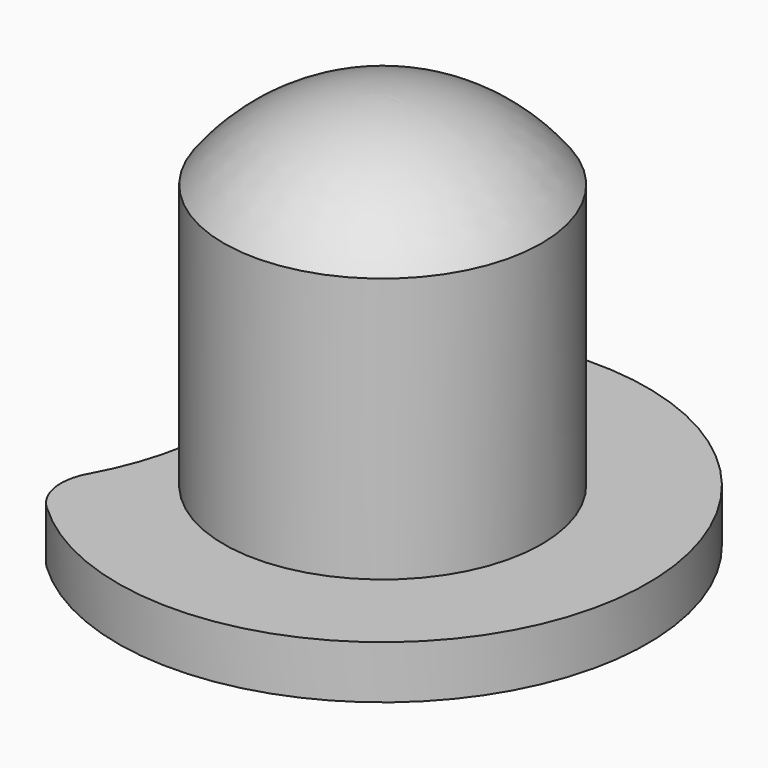
from build123d import *

# Parameters (mm, degrees)
F0_W     = 3
F0_H     = 5
F2_R     = 5
F3_DEPTH = 25
F4_R     = 1


with BuildPart() as f1:
    # F0 (on Front) → F1 (revolve)
    with BuildSketch(Plane.XZ):
        with BuildLine():
            Line((0, 1.5), (0, 0))
            Line((0, 0), (3, 0))
            ThreePointArc((3, 0), (1.6770788162, 1.1041576324), (0, 1.5))
        make_face()
        with Locations((1.5, -2.5)):
            Rectangle(F0_W, F0_H)
        Polygon((3, -5), (0, -5), (0, -6), (5, -6), (5, -5), align=None)
    revolve(axis=Axis((0, 0, -2.5), (0, 0, -1)))

    # F2 (on face) → F3 (cut)
    with BuildSketch(Plane.XY.offset(-5)):
        with Locations((-8, 0)):
            Circle(F2_R)
    extrude(amount=-F3_DEPTH, mode=Mode.SUBTRACT)

    # F4
    f4_edges = [f1.edges().sort_by_distance(p)[0] for p in [
        (-4, -3, -5.5),
        (-4, 3, -5.5),
    ]]
    fillet(f4_edges, radius=F4_R)


solid = f1.part
